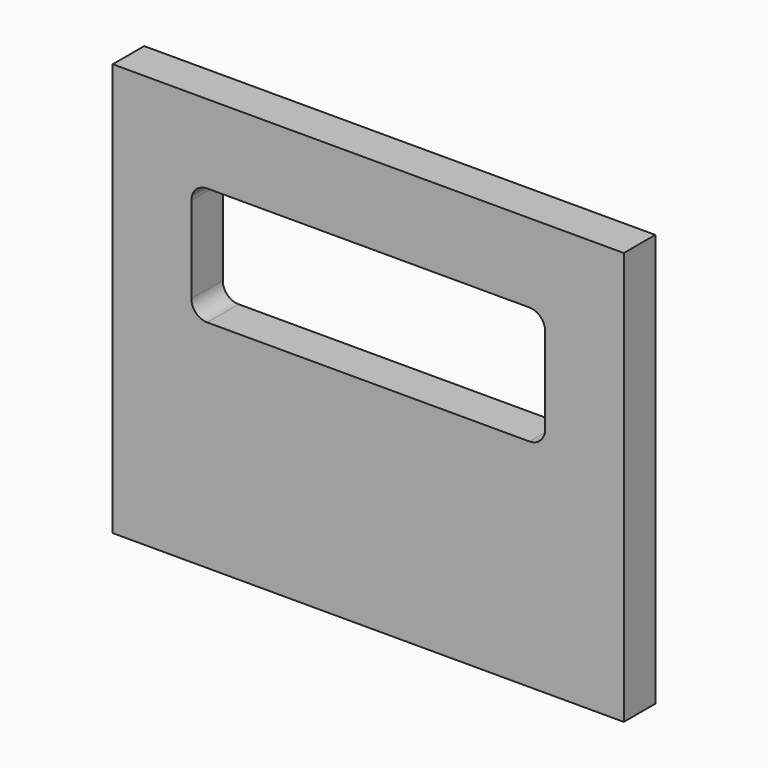
from build123d import *

# Parameters (mm, degrees)
F0_W     = 65
F0_H     = 52.5
F1_DEPTH = 5


with BuildPart() as f1:
    # F0 (on Front) → F1 (new body)
    with BuildSketch(Plane.XZ):
        Rectangle(F0_W, F0_H)
        with BuildLine():
            ThreePointArc((-22.5, 14.25), (-21.914214, 15.664214), (-20.5, 16.25))
            Line((-20.5, 16.25), (20.5, 16.25))
            ThreePointArc((20.5, 16.25), (21.914214, 15.664214), (22.5, 14.25))
            Line((22.5, 14.25), (22.5, 3.25))
            ThreePointArc((22.5, 3.25), (21.914214, 1.835786), (20.5, 1.25))
            Line((20.5, 1.25), (-20.5, 1.25))
            ThreePointArc((-20.5, 1.25), (-21.914214, 1.835786), (-22.5, 3.25))
            Line((-22.5, 3.25), (-22.5, 14.25))
        make_face(mode=Mode.SUBTRACT)
    extrude(amount=F1_DEPTH)


solid = f1.part
